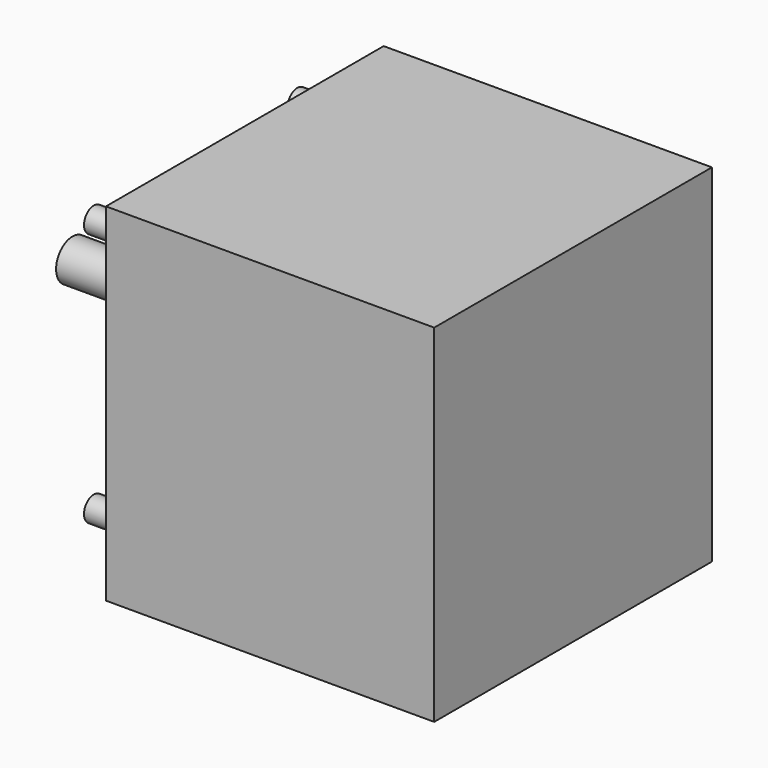
from build123d import *

# Parameters (mm, degrees)
CYLINDER261_R             = 1.5
CYLINDER261_DEPTH         = 6
CYLINDER260_R             = 1.5
CYLINDER260_DEPTH         = 6
CYLINDER257_R             = 11.2
CYLINDER257_DEPTH         = 6
CYLINDER258_R             = 2.5
CYLINDER258_DEPTH         = 21
CYLINDER259_R             = 1.5
CYLINDER259_DEPTH         = 6
CYLINDER256_R             = 1.5
CYLINDER256_DEPTH         = 6
BOX101_W                  = 40
BOX101_H                  = 42.3
BOX101_DEPTH              = 42.3
FUSION103_PLACEMENT_ANGLE = 180


with BuildPart() as cylinder261:
    # Cylinder261 → Cylinder261 (new body)
    with BuildSketch(Plane(origin=(40, 5.65, 36.665), x_dir=(0, 0, -1), z_dir=(1, 0, 0))):
        Circle(CYLINDER261_R)
    extrude(amount=CYLINDER261_DEPTH)


with BuildPart() as cylinder260:
    # Cylinder260 → Cylinder260 (new body)
    with BuildSketch(Plane(origin=(40, 36.65, 36.65), x_dir=(0, 0, -1), z_dir=(1, 0, 0))):
        Circle(CYLINDER260_R)
    extrude(amount=CYLINDER260_DEPTH)


with BuildPart() as cylinder257:
    # Cylinder257 → Cylinder257 (new body)
    with BuildSketch(Plane(origin=(40, 21.15, 21.15), x_dir=(0, 0, -1), z_dir=(1, 0, 0))):
        Circle(CYLINDER257_R)
    extrude(amount=CYLINDER257_DEPTH)


with BuildPart() as cylinder258:
    # Cylinder258 → Cylinder258 (new body)
    with BuildSketch(Plane(origin=(40, 21.15, 21.15), x_dir=(0, 0, -1), z_dir=(1, 0, 0))):
        Circle(CYLINDER258_R)
    extrude(amount=CYLINDER258_DEPTH)


with BuildPart() as cylinder259:
    # Cylinder259 → Cylinder259 (new body)
    with BuildSketch(Plane(origin=(40, 5.65, 5.65), x_dir=(0, 0, -1), z_dir=(1, 0, 0))):
        Circle(CYLINDER259_R)
    extrude(amount=CYLINDER259_DEPTH)


with BuildPart() as cylinder256:
    # Cylinder256 → Cylinder256 (new body)
    with BuildSketch(Plane(origin=(40, 36.65, 5.65), x_dir=(0, 0, -1), z_dir=(1, 0, 0))):
        Circle(CYLINDER256_R)
    extrude(amount=CYLINDER256_DEPTH)


with BuildPart() as fusion103:
    # Box101 → Box101 (new body)
    with BuildSketch(Plane.XY):
        with Locations((20, 21.15)):
            Rectangle(BOX101_W, BOX101_H)
    extrude(amount=BOX101_DEPTH)

    # Fusion103: union Cylinder261, Cylinder260, Cylinder257, Cylinder258, Cylinder259, Cylinder256
    add(cylinder261.part)
    add(cylinder260.part)
    add(cylinder257.part)
    add(cylinder258.part)
    add(cylinder259.part)
    add(cylinder256.part)


with BuildPart() as fusion103_1:
    # Fusion103 placement: moved
    add(fusion103.part.moved(Location((135.9, 203.3, 134))).rotate(Axis((135.9, 203.3, 134), (0, 0, 1)), FUSION103_PLACEMENT_ANGLE))


solid = fusion103_1.part
